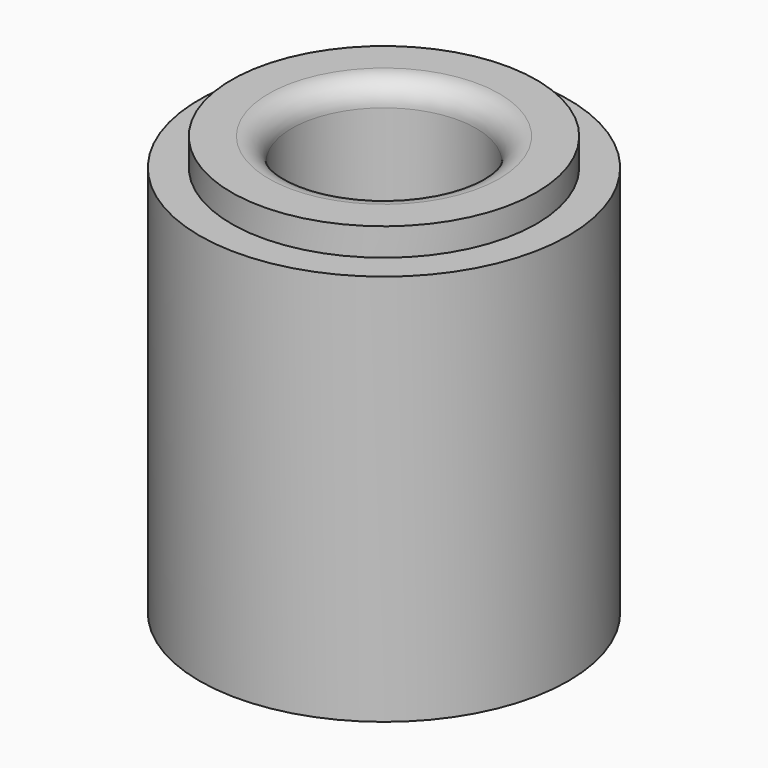
from build123d import *

# Parameters (mm, degrees)
F0_R     = 40
F1_DEPTH = 85
F2_R     = 20
F3_DEPTH = 88
F4_R     = 5
F5_R     = 33.0630902993
F5_R_2   = 20
F6_DEPTH = 6
F7_R     = 5


with BuildPart() as f1:
    # F0 (on Top) → F1 (new body)
    with BuildSketch(Plane.XY):
        Circle(F0_R)
    extrude(amount=F1_DEPTH)

    # F2 (on face) → F3 (cut)
    with BuildSketch(Plane.XY.offset(85)):
        Circle(F2_R)
    extrude(amount=-F3_DEPTH, mode=Mode.SUBTRACT)

    # F4
    f4_edges = [f1.edges().sort_by_distance(p)[0] for p in [
        (-20, 0, 0),
    ]]
    fillet(f4_edges, radius=F4_R)

    # F5 (on face) → F6 (join, symmetric)
    with BuildSketch(Plane.XY.offset(85)):
        Circle(F5_R)
        Circle(F5_R_2, mode=Mode.SUBTRACT)
    extrude(amount=F6_DEPTH, both=True)

    # F7
    f7_edges = [f1.edges().sort_by_distance(p)[0] for p in [
        (-20, 0, 79),
        (20, 0, 42),
        (-20, 0, 5),
        (-20, 0, 85),
        (20, 0, 82),
        (20, 0, 88),
        (-20, 0, 91),
    ]]
    fillet(f7_edges, radius=F7_R)


solid = f1.part
